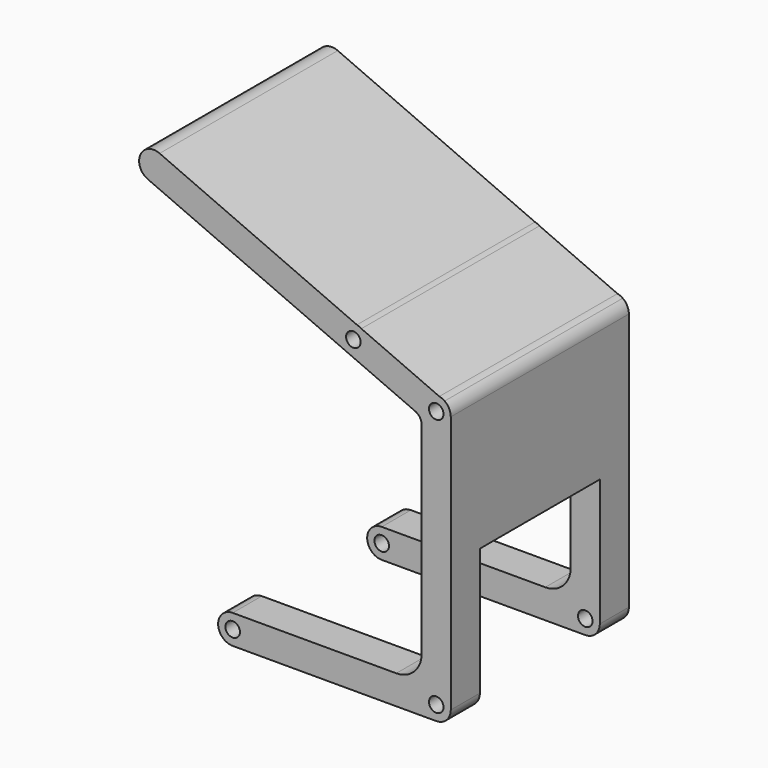
from build123d import *

# Parameters (mm, degrees)
F0_R     = 2
F1_DEPTH = 61.25
F3_W     = 41.25
F3_H     = 8.560816
F3_H_2   = 35
F4_DEPTH = 65


with BuildPart() as f1:
    # F0 (on Front) → F1 (new body)
    with BuildSketch(Plane.XZ):
        with BuildLine():
            ThreePointArc((-1.831576, 71.803323), (-0.410394, 69.042559), (2, 71))
            ThreePointArc((2, 71), (0.410394, 72.957441), (-1.831576, 71.803323))
        make_face()
        with BuildLine():
            Line((4, 0), (4, 71))
            ThreePointArc((4, 71), (3.551413, 72.840508), (2.306266, 74.268201))
            Line((2.306266, 74.268201), (0.849555, 74.908741))
            Line((0.849555, 74.908741), (-20.599134, 84.340088))
            Line((-20.599134, 84.340088), (-21.826222, 84.879659))
            Line((-21.826222, 84.879659), (-76.100168, 108.744821))
            ThreePointArc((-76.100168, 108.744821), (-81.420668, 106.682823), (-79.26595, 101.399193))
            Line((-79.26595, 101.399193), (-24.45399, 77.357979))
            Line((-24.45399, 77.357979), (-24.359132, 77.316373))
            Line((-24.359132, 77.316373), (-5.794979, 69.173902))
            ThreePointArc((-5.794979, 69.173902), (-4.48852, 68.067428), (-4, 66.426554))
            Line((-4, 66.426554), (-4, 11))
            ThreePointArc((-4, 11), (-6.050253, 6.050253), (-11, 4))
            Line((-11, 4), (-56, 4))
            ThreePointArc((-56, 4), (-60, 0), (-56, -4))
            Line((-56, -4), (0, -4))
            ThreePointArc((0, -4), (2.828427, -2.828427), (4, 0))
        make_face()
        with Locations((-56, 0)):
            Circle(F0_R, mode=Mode.SUBTRACT)
        Circle(F0_R, mode=Mode.SUBTRACT)
        with BuildLine():
            ThreePointArc((-1.831576, 71.803323), (0.410394, 72.957441), (2, 71))
            ThreePointArc((2, 71), (-0.410394, 69.042559), (-1.831576, 71.803323))
        make_face(mode=Mode.SUBTRACT)
        with Locations((-22.8, 81)):
            Circle(F0_R, mode=Mode.SUBTRACT)
        with BuildLine():
            Line((0.849555, 74.908741), (2.306266, 74.268201))
            ThreePointArc((2.306266, 74.268201), (1.610085, 74.661642), (0.849555, 74.908741))
        make_face()
        with BuildLine():
            Line((-21.826222, 84.879659), (-20.599134, 84.340088))
            ThreePointArc((-20.599134, 84.340088), (-21.189915, 84.661642), (-21.826222, 84.879659))
        make_face()
        with BuildLine():
            Line((-24.359132, 77.316373), (-24.45399, 77.357979))
            ThreePointArc((-24.45399, 77.357979), (-24.406695, 77.336869), (-24.359132, 77.316373))
        make_face()
    extrude(amount=F1_DEPTH)

    # F3 (on face) → F4 (cut)
    with BuildSketch(Plane.YZ.offset(4)):
        with Locations((-30.625, -4.280408)):
            Rectangle(F3_W, F3_H)
        with Locations((-30.625, 17.5)):
            Rectangle(F3_W, F3_H_2)
    extrude(amount=-F4_DEPTH, mode=Mode.SUBTRACT)


solid = f1.part
